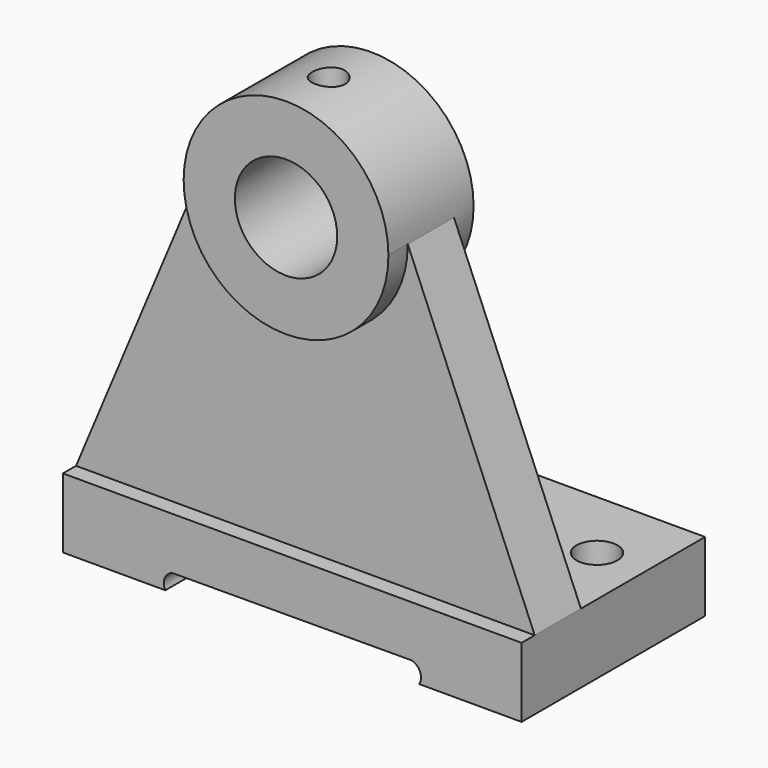
from build123d import *

# Parameters (mm, degrees)
F0_R      = 25
F1_DEPTH  = 26
F3_DEPTH  = 20
F5_DEPTH  = 5.7
F7_DEPTH  = 5.9
F6_R      = 12.5
F8_DEPTH  = 26.001
F9_W      = 112
F9_H      = 56
F10_DEPTH = 17
F11_W     = 12
F11_H     = 28.827018
F12_DEPTH = 37.8
F14_DEPTH = 61.850929
F15_R     = 5
F16_DEPTH = 17.001
F18_DEPTH = 57.901
F19_R     = 4
F20_DEPTH = 25.001


with BuildPart() as f1:
    # F0 (on Front) → F1 (new body)
    with BuildSketch(Plane.XZ):
        Circle(F0_R)
    extrude(amount=F1_DEPTH)

    # F2 (on face) → F3 (join)
    with BuildSketch(Plane.XZ.offset(26)):
        Polygon((-25, 0), (-56, -74), (56, -74), (25, 0), align=None)
    extrude(amount=-F3_DEPTH)

    # F4 (on face) → F5 (cut)
    with BuildSketch(Plane.XZ.offset(26)):
        with BuildLine():
            ThreePointArc((25, 0), (0, -25.118919), (-25, 0))
            Line((-25, 0), (-56, -74))
            Line((-56, -74), (56, -74))
            Line((56, -74), (25, 0))
        make_face()
    extrude(amount=-F5_DEPTH, mode=Mode.SUBTRACT)

    # F4 (on face) → F7 (cut)
    with BuildSketch(Plane.XZ.offset(26)):
        with BuildLine():
            ThreePointArc((25, 0), (0, -25.118919), (-25, 0))
            Line((-25, 0), (-56, -74))
            Line((-56, -74), (56, -74))
            Line((56, -74), (25, 0))
        make_face()
    extrude(amount=-F7_DEPTH, mode=Mode.SUBTRACT)

    # F6 (on face) → F8 (cut, through all)
    with BuildSketch(Plane.XZ.offset(26)):
        Circle(F6_R)
    extrude(amount=-F8_DEPTH, mode=Mode.SUBTRACT)

    # F9 (on face) → F10 (join)
    with BuildSketch(Plane(origin=(0, 0, -74), x_dir=(1, 0, 0), z_dir=(0, 0, -1))):
        with Locations((0, -3.9)):
            Rectangle(F9_W, F9_H)
    extrude(amount=F10_DEPTH)

    # F11 (on face) → F12 (join)
    with BuildSketch(Plane(origin=(0, -6, 0), x_dir=(-1, 0, 0), z_dir=(0, 1, 0))):
        with Locations((-0.150071, -59.586491)):
            Rectangle(F11_W, F11_H)
    extrude(amount=F12_DEPTH)

    # F13 (on face) → F14 (cut, through all)
    with BuildSketch(Plane(origin=(-5.849929, 0, 0), x_dir=(0, -1, 0), z_dir=(-1, 0, 0))):
        Polygon((-31.8, -74), (6, -45.172982), (-31.8, -45.172982), align=None)
    extrude(amount=-F14_DEPTH, mode=Mode.SUBTRACT)

    # F15 (on face) → F16 (cut, through all)
    with BuildSketch(Plane.XY.offset(-74)):
        with Locations((-44, 13.9)):
            Circle(F15_R)
        with Locations((44, 13.9)):
            Circle(F15_R)
    extrude(amount=-F16_DEPTH, mode=Mode.SUBTRACT)

    # F17 (on face) → F18 (cut, through all)
    with BuildSketch(Plane(origin=(0, 31.9, 0), x_dir=(-1, 0, 0), z_dir=(0, 1, 0))):
        with BuildLine():
            Line((-31, -91), (31, -91))
            ThreePointArc((31, -91), (31.151032, -88.462802), (29.300669, -86.720292))
            Line((29.300669, -86.720292), (-29.08097, -86.498646))
            ThreePointArc((-29.08097, -86.498646), (-31.203205, -88.253629), (-31, -91))
        make_face()
    extrude(amount=-F18_DEPTH, mode=Mode.SUBTRACT)

    # F19 (on Top) → F20 (cut, through all)
    with BuildSketch(Plane.XY):
        with Locations((0, -13)):
            Circle(F19_R)
    extrude(amount=F20_DEPTH, mode=Mode.SUBTRACT)


solid = f1.part
